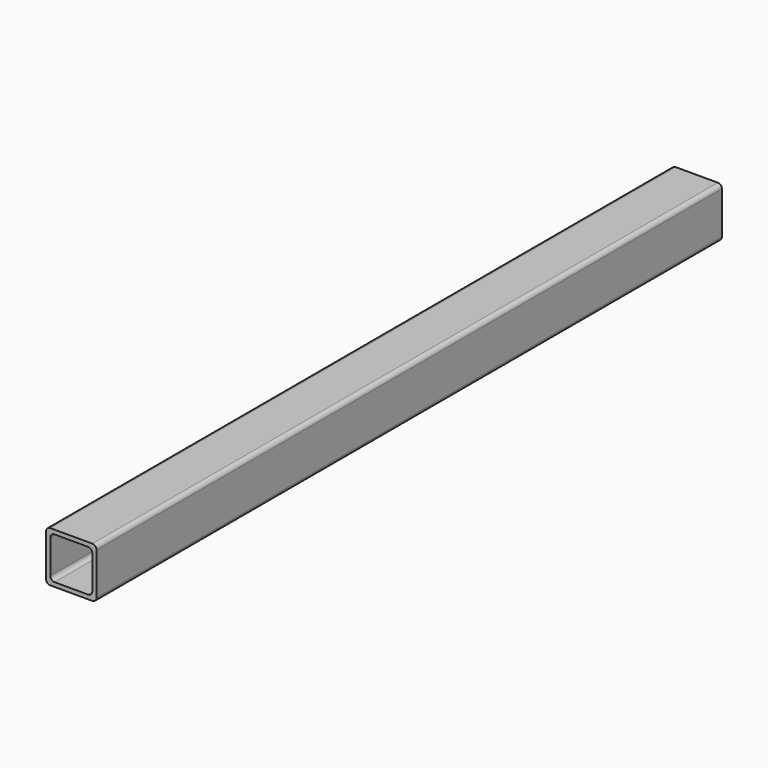
from build123d import *

# Parameters (mm, degrees)
F1_DEPTH = 590.55


with BuildPart() as f1:
    # F0 (on Front) → F1 (new body)
    with BuildSketch(Plane.XZ):
        with BuildLine():
            ThreePointArc((19.05, 15.875), (18.120064, 18.120064), (15.875, 19.05))
            Line((15.875, 19.05), (-15.875, 19.05))
            ThreePointArc((-15.875, 19.05), (-18.120064, 18.120064), (-19.05, 15.875))
            Line((-19.05, 15.875), (-19.05, -15.875))
            ThreePointArc((-19.05, -15.875), (-18.120064, -18.120064), (-15.875, -19.05))
            Line((-15.875, -19.05), (15.875, -19.05))
            ThreePointArc((15.875, -19.05), (18.120064, -18.120064), (19.05, -15.875))
            Line((19.05, -15.875), (19.05, 15.875))
        make_face()
        with BuildLine():
            Line((-12.7, 15.875), (12.7, 15.875))
            ThreePointArc((12.7, 15.875), (14.945064, 14.945064), (15.875, 12.7))
            Line((15.875, 12.7), (15.875, -12.7))
            ThreePointArc((15.875, -12.7), (14.945064, -14.945064), (12.7, -15.875))
            Line((12.7, -15.875), (-12.7, -15.875))
            ThreePointArc((-12.7, -15.875), (-14.945064, -14.945064), (-15.875, -12.7))
            Line((-15.875, -12.7), (-15.875, 12.7))
            ThreePointArc((-15.875, 12.7), (-14.945064, 14.945064), (-12.7, 15.875))
        make_face(mode=Mode.SUBTRACT)
    extrude(amount=F1_DEPTH)


solid = f1.part
